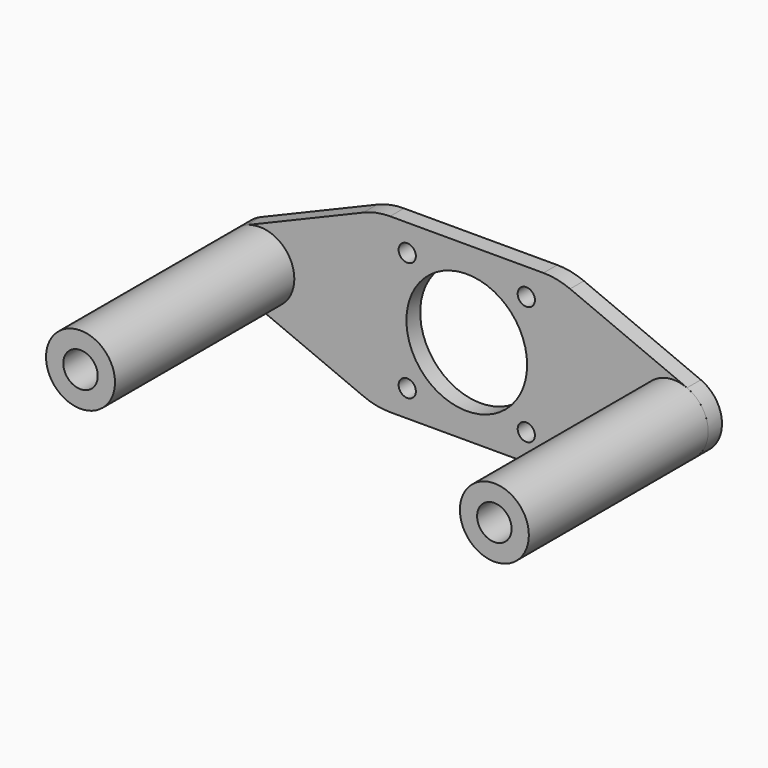
from build123d import *

# Parameters (mm, degrees)
F0_R     = 1.5875
F0_R_2   = 2.5527
F0_R_3   = 11.1125
F1_DEPTH = 3.175
F2_R     = 6.35
F2_R_2   = 3.175
F3_DEPTH = 41.275


with BuildPart() as f1:
    # F0 (on Front) → F1 (new body)
    with BuildSketch(Plane.XZ):
        with BuildLine():
            Line((-19.025418, 14.886527), (-40.556121, 5.855764))
            ThreePointArc((-40.556121, 5.855764), (-44.45, 0), (-40.556121, -5.855764))
            Line((-40.556121, -5.855764), (-19.025418, -14.886527))
            ThreePointArc((-19.025418, -14.886527), (-16.61853, -15.62543), (-14.113175, -15.875))
            Line((-14.113175, -15.875), (14.113175, -15.875))
            ThreePointArc((14.113175, -15.875), (16.61853, -15.62543), (19.025418, -14.886527))
            Line((19.025418, -14.886527), (40.556121, -5.855764))
            ThreePointArc((40.556121, -5.855764), (44.45, 0), (40.556121, 5.855764))
            Line((40.556121, 5.855764), (19.025418, 14.886527))
            ThreePointArc((19.025418, 14.886527), (16.61853, 15.62543), (14.113175, 15.875))
            Line((14.113175, 15.875), (-14.113175, 15.875))
            ThreePointArc((-14.113175, 15.875), (-16.61853, 15.62543), (-19.025418, 14.886527))
        make_face()
        with Locations((-10.9601, -10.9601)):
            Circle(F0_R, mode=Mode.SUBTRACT)
        with Locations((10.9601, -10.9601)):
            Circle(F0_R, mode=Mode.SUBTRACT)
        with Locations((-38.1, 0)):
            Circle(F0_R_2, mode=Mode.SUBTRACT)
        with Locations((-10.9601, 10.9601)):
            Circle(F0_R, mode=Mode.SUBTRACT)
        Circle(F0_R_3, mode=Mode.SUBTRACT)
        with Locations((38.1, 0)):
            Circle(F0_R_2, mode=Mode.SUBTRACT)
        with Locations((10.9601, 10.9601)):
            Circle(F0_R, mode=Mode.SUBTRACT)
    extrude(amount=F1_DEPTH)


with BuildPart() as f3:
    # F2 (on face) → F3 (new body)
    with BuildSketch(Plane.XZ.offset(3.175)):
        with Locations((-38.1, 0)):
            Circle(F2_R)
        with Locations((-38.1, 0)):
            Circle(F2_R_2, mode=Mode.SUBTRACT)
        with Locations((38.1, 0)):
            Circle(F2_R)
        with Locations((38.1, 0)):
            Circle(F2_R_2, mode=Mode.SUBTRACT)
    extrude(amount=F3_DEPTH)


solid = Compound([f1.part, f3.part])
